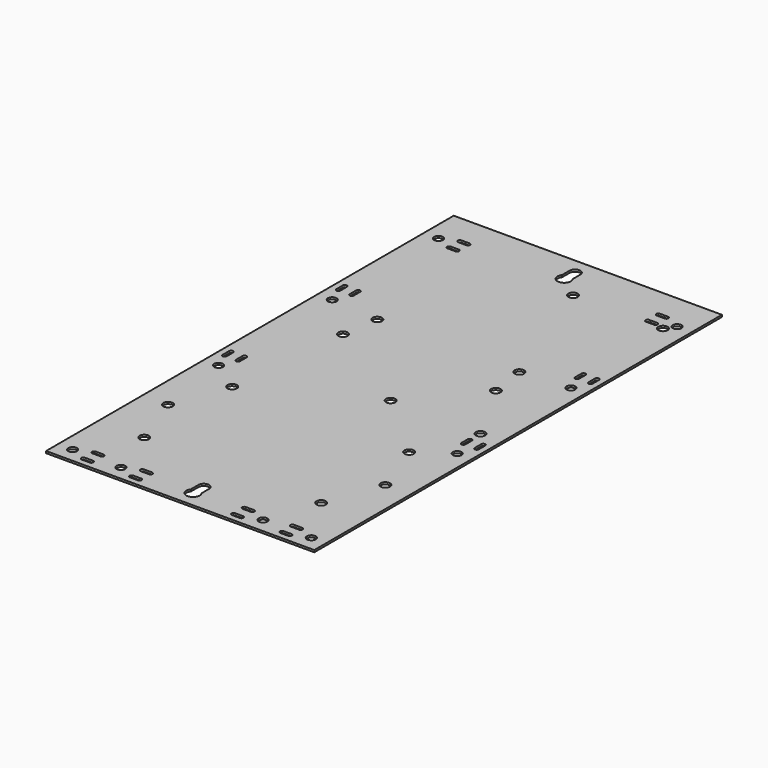
from build123d import *

# Parameters (mm, degrees)
F0_W     = 200
F0_H     = 380
F0_R     = 3.25
F0_R_2   = 3.5
F1_DEPTH = 1.5
F2_R     = 3.5
F3_DEPTH = 25


with BuildPart() as f1:
    # F0 (on Top) → F1 (new body)
    with BuildSketch(Plane.XY):
        Rectangle(F0_W, F0_H)
        with Locations((-89, -179)):
            Circle(F0_R, mode=Mode.SUBTRACT)
        with BuildLine():
            Line((-77, -182.5), (-71, -182.5))
            ThreePointArc((-71, -182.5), (-69.5, -184), (-71, -185.5))
            Line((-71, -185.5), (-77, -185.5))
            ThreePointArc((-77, -185.5), (-78.5, -184), (-77, -182.5))
        make_face(mode=Mode.SUBTRACT)
        with BuildLine():
            ThreePointArc((-77, -175.5), (-78.5, -174), (-77, -172.5))
            Line((-77, -172.5), (-71, -172.5))
            ThreePointArc((-71, -172.5), (-69.5, -174), (-71, -175.5))
            Line((-71, -175.5), (-77, -175.5))
        make_face(mode=Mode.SUBTRACT)
        with Locations((-53, -179)):
            Circle(F0_R, mode=Mode.SUBTRACT)
        with Locations((-81, -100)):
            Circle(F0_R_2, mode=Mode.SUBTRACT)
        with Locations((-66, -141)):
            Circle(F0_R_2, mode=Mode.SUBTRACT)
        with BuildLine():
            Line((-41, -182.5), (-35, -182.5))
            ThreePointArc((-35, -182.5), (-33.5, -184), (-35, -185.5))
            Line((-35, -185.5), (-41, -185.5))
            ThreePointArc((-41, -185.5), (-42.5, -184), (-41, -182.5))
        make_face(mode=Mode.SUBTRACT)
        with BuildLine():
            ThreePointArc((-41, -175.5), (-42.5, -174), (-41, -172.5))
            Line((-41, -172.5), (-35, -172.5))
            ThreePointArc((-35, -172.5), (-33.5, -174), (-35, -175.5))
            Line((-35, -175.5), (-41, -175.5))
        make_face(mode=Mode.SUBTRACT)
        with Locations((-66, -59)):
            Circle(F0_R_2, mode=Mode.SUBTRACT)
        with Locations((-89, -43)):
            Circle(F0_R, mode=Mode.SUBTRACT)
        with BuildLine():
            ThreePointArc((-92.5, -31), (-94, -32.5), (-95.5, -31))
            Line((-95.5, -31), (-95.5, -25))
            ThreePointArc((-95.5, -25), (-94, -23.5), (-92.5, -25))
            Line((-92.5, -25), (-92.5, -31))
        make_face(mode=Mode.SUBTRACT)
        with BuildLine():
            Line((-85.5, -31), (-85.5, -25))
            ThreePointArc((-85.5, -25), (-84, -23.5), (-82.5, -25))
            Line((-82.5, -25), (-82.5, -31))
            ThreePointArc((-82.5, -31), (-84, -32.5), (-85.5, -31))
        make_face(mode=Mode.SUBTRACT)
        with BuildLine():
            ThreePointArc((35, -185.5), (33.5, -184), (35, -182.5))
            Line((35, -182.5), (41, -182.5))
            ThreePointArc((41, -182.5), (42.5, -184), (41, -185.5))
            Line((41, -185.5), (35, -185.5))
        make_face(mode=Mode.SUBTRACT)
        with BuildLine():
            Line((35, -172.5), (41, -172.5))
            ThreePointArc((41, -172.5), (42.5, -174), (41, -175.5))
            Line((41, -175.5), (35, -175.5))
            ThreePointArc((35, -175.5), (33.5, -174), (35, -172.5))
        make_face(mode=Mode.SUBTRACT)
        with Locations((53, -179)):
            Circle(F0_R, mode=Mode.SUBTRACT)
        with BuildLine():
            ThreePointArc((71, -185.5), (69.5, -184), (71, -182.5))
            Line((71, -182.5), (77, -182.5))
            ThreePointArc((77, -182.5), (78.5, -184), (77, -185.5))
            Line((77, -185.5), (71, -185.5))
        make_face(mode=Mode.SUBTRACT)
        with BuildLine():
            Line((77, -175.5), (71, -175.5))
            ThreePointArc((71, -175.5), (69.5, -174), (71, -172.5))
            Line((71, -172.5), (77, -172.5))
            ThreePointArc((77, -172.5), (78.5, -174), (77, -175.5))
        make_face(mode=Mode.SUBTRACT)
        with Locations((89, -179)):
            Circle(F0_R, mode=Mode.SUBTRACT)
        with Locations((66, -141)):
            Circle(F0_R_2, mode=Mode.SUBTRACT)
        with Locations((81, -100)):
            Circle(F0_R_2, mode=Mode.SUBTRACT)
        with Locations((66, -59)):
            Circle(F0_R_2, mode=Mode.SUBTRACT)
        with BuildLine():
            ThreePointArc((85.5, -31), (84, -32.5), (82.5, -31))
            Line((82.5, -31), (82.5, -25))
            ThreePointArc((82.5, -25), (84, -23.5), (85.5, -25))
            Line((85.5, -25), (85.5, -31))
        make_face(mode=Mode.SUBTRACT)
        with Locations((89, -43)):
            Circle(F0_R, mode=Mode.SUBTRACT)
        with BuildLine():
            Line((92.5, -31), (92.5, -25))
            ThreePointArc((92.5, -25), (94, -23.5), (95.5, -25))
            Line((95.5, -25), (95.5, -31))
            ThreePointArc((95.5, -31), (94, -32.5), (92.5, -31))
        make_face(mode=Mode.SUBTRACT)
        with Locations((-57, 33)):
            Circle(F0_R_2, mode=Mode.SUBTRACT)
        with Locations((-89, 63)):
            Circle(F0_R, mode=Mode.SUBTRACT)
        with BuildLine():
            ThreePointArc((-95.5, 81), (-94, 82.5), (-92.5, 81))
            Line((-92.5, 81), (-92.5, 75))
            ThreePointArc((-92.5, 75), (-94, 73.5), (-95.5, 75))
            Line((-95.5, 75), (-95.5, 81))
        make_face(mode=Mode.SUBTRACT)
        with BuildLine():
            Line((-85.5, 75), (-85.5, 81))
            ThreePointArc((-85.5, 81), (-84, 82.5), (-82.5, 81))
            Line((-82.5, 81), (-82.5, 75))
            ThreePointArc((-82.5, 75), (-84, 73.5), (-85.5, 75))
        make_face(mode=Mode.SUBTRACT)
        with Locations((-53, 60)):
            Circle(F0_R_2, mode=Mode.SUBTRACT)
        with Locations((-89, 162)):
            Circle(F0_R, mode=Mode.SUBTRACT)
        with BuildLine():
            Line((-77, 158.5), (-71, 158.5))
            ThreePointArc((-71, 158.5), (-69.5, 157), (-71, 155.5))
            Line((-71, 155.5), (-77, 155.5))
            ThreePointArc((-77, 155.5), (-78.5, 157), (-77, 158.5))
        make_face(mode=Mode.SUBTRACT)
        with BuildLine():
            ThreePointArc((-77, 165.5), (-78.5, 167), (-77, 168.5))
            Line((-77, 168.5), (-71, 168.5))
            ThreePointArc((-71, 168.5), (-69.5, 167), (-71, 165.5))
            Line((-71, 165.5), (-77, 165.5))
        make_face(mode=Mode.SUBTRACT)
        with Locations((57, 33)):
            Circle(F0_R_2, mode=Mode.SUBTRACT)
        with Locations((53, 60)):
            Circle(F0_R_2, mode=Mode.SUBTRACT)
        with Locations((89, 63)):
            Circle(F0_R, mode=Mode.SUBTRACT)
        with BuildLine():
            ThreePointArc((82.5, 81), (84, 82.5), (85.5, 81))
            Line((85.5, 81), (85.5, 75))
            ThreePointArc((85.5, 75), (84, 73.5), (82.5, 75))
            Line((82.5, 75), (82.5, 81))
        make_face(mode=Mode.SUBTRACT)
        with BuildLine():
            Line((92.5, 75), (92.5, 81))
            ThreePointArc((92.5, 81), (94, 82.5), (95.5, 81))
            Line((95.5, 81), (95.5, 75))
            ThreePointArc((95.5, 75), (94, 73.5), (92.5, 75))
        make_face(mode=Mode.SUBTRACT)
        with BuildLine():
            ThreePointArc((71, 155.5), (69.5, 157), (71, 158.5))
            Line((71, 158.5), (77, 158.5))
            ThreePointArc((77, 158.5), (78.5, 157), (77, 155.5))
            Line((77, 155.5), (71, 155.5))
        make_face(mode=Mode.SUBTRACT)
        with BuildLine():
            Line((71, 168.5), (77, 168.5))
            ThreePointArc((77, 168.5), (78.5, 167), (77, 165.5))
            Line((77, 165.5), (71, 165.5))
            ThreePointArc((71, 165.5), (69.5, 167), (71, 168.5))
        make_face(mode=Mode.SUBTRACT)
        with Locations((89, 162)):
            Circle(F0_R, mode=Mode.SUBTRACT)
    extrude(amount=F1_DEPTH)

    # F2 (on face) → F3 (cut)
    with BuildSketch(Plane.XY.offset(1.5)):
        with Locations((84, -15)):
            Circle(F2_R)
        with Locations((17, -15)):
            Circle(F2_R)
        with BuildLine():
            Line((4, 171), (4, 178))
            ThreePointArc((4, 178), (0, 182), (-4, 178))
            Line((-4, 178), (-4, 171))
            ThreePointArc((-4, 171), (0, 163), (4, 171))
        make_face()
        with BuildLine():
            Line((-4, -168), (-4, -175))
            ThreePointArc((-4, -175), (0, -183), (4, -175))
            Line((4, -175), (4, -168))
            ThreePointArc((4, -168), (0, -164), (-4, -168))
        make_face()
        with Locations((84, 155)):
            Circle(F2_R)
        with Locations((17, 155)):
            Circle(F2_R)
    extrude(amount=-F3_DEPTH, mode=Mode.SUBTRACT)


solid = f1.part
